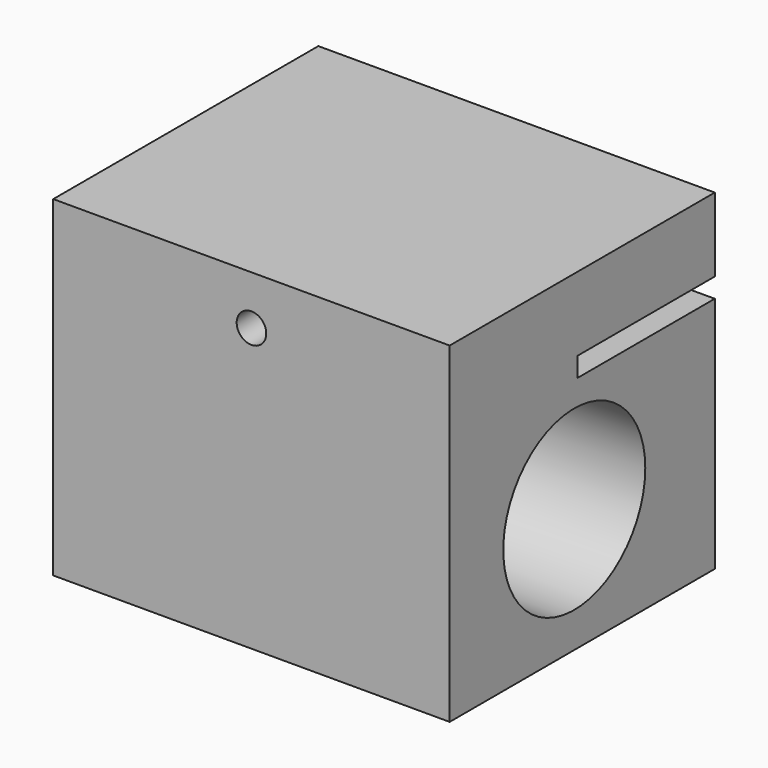
from build123d import *

# Parameters (mm, degrees)
F0_W     = 1701.8
F0_H     = 1422.4
F1_DEPTH = 1422.4
F3_DEPTH = 160.02
F4_W     = 736.6
F4_H     = 83.82
F5_DEPTH = 1701.8
F6_R     = 381
F7_DEPTH = 3035.3


with BuildPart() as f1:
    # F0 (on Front) → F1 (new body)
    with BuildSketch(Plane.XZ):
        Rectangle(F0_W, F0_H)
    extrude(amount=F1_DEPTH)

    # F2 (on face) → F3 (cut)
    with BuildSketch(Plane.XZ.offset(1422.4)):
        with BuildLine():
            ThreePointArc((63.5, 500.38), (44.901281, 545.281281), (0, 563.88))
            ThreePointArc((0, 563.88), (-44.901281, 455.478719), (63.5, 500.38))
        make_face()
    extrude(amount=-F3_DEPTH, mode=Mode.SUBTRACT)

    # F4 (on face) → F5 (cut)
    with BuildSketch(Plane.YZ.offset(850.9)):
        with Locations((-368.3, 351.79)):
            Rectangle(F4_W, F4_H)
    extrude(amount=-F5_DEPTH, mode=Mode.SUBTRACT)

    # F6 (on face) → F7 (cut)
    with BuildSketch(Plane.YZ.offset(850.9)):
        with Locations((-753.856719, -178.938612)):
            Circle(F6_R)
    extrude(amount=-F7_DEPTH, mode=Mode.SUBTRACT)


solid = f1.part
